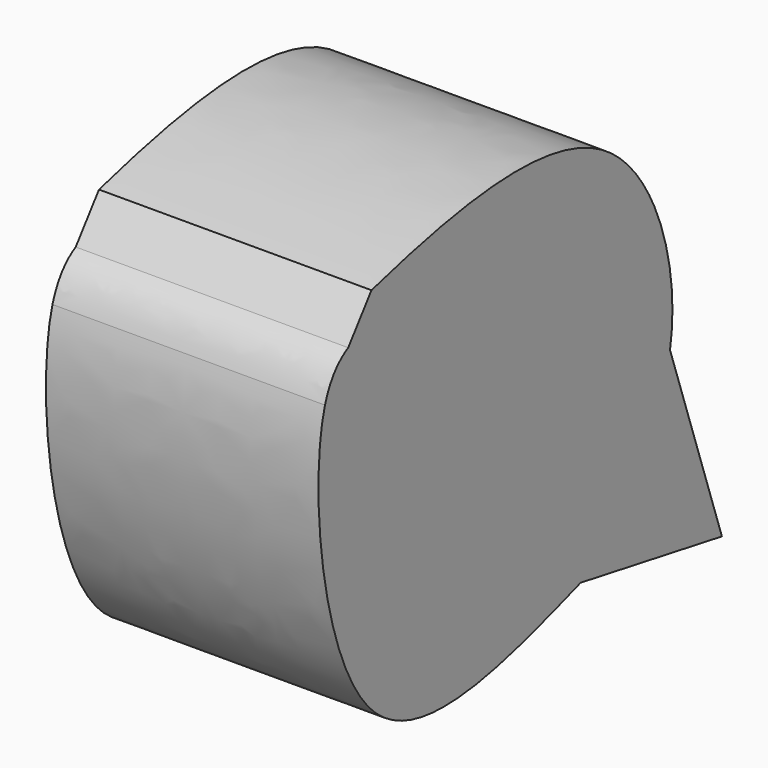
from build123d import *

# Parameters (mm, degrees)
F1_DEPTH = 45.07453


with BuildPart() as f1:
    # F0 (on Right) → F1 (new body)
    with BuildSketch(Plane.YZ):
        Polygon((-59.807760641, 66.0852901638), (-64.6163138319, 59.6738884004), (-49.002295057, 59.9308239749), (-54.9992074501, 72.4966919271), align=None)
        with BuildLine():
            add(Edge.make_bspline(
                [(-59.807760641, 66.0852901638), (-60.9811697449, 65.4542834753), (-63.2808257205, 63.9392444645), (-64.6163138319, 59.6738884004)],
                knots=[0, 0, 0, 0, 0.1723284347, 0.1723284347, 0.1723284347, 0.1723284347], degree=3))
            Line((-64.6163138319, 59.6738884004), (-59.807760641, 66.0852901638))
        make_face()
        with BuildLine():
            Line((-49.002295057, 59.9308239749), (-64.6163138319, 59.6738884004))
            add(Edge.make_bspline(
                [(-64.6163138319, 59.6738884004), (-67.9390149419, 49.0616611493), (-62.8318014713, -4.2894128494), (-28.0017629982, 6.7678682332), (-11.7444196583, 12.3182377696)],
                knots=[0.1723284347, 0.1723284347, 0.1723284347, 0.1723284347, 0.6010824434, 1, 1, 1, 1], degree=3))
            Line((-11.7444196583, 12.3182377696), (-38.3074693382, 37.5209972262))
            Line((-38.3074693382, 37.5209972262), (-49.002295057, 59.9308239749))
        make_face()
        with BuildLine():
            Line((-54.9992074501, 72.4966919271), (-49.002295057, 59.9308239749))
            Line((-49.002295057, 59.9308239749), (-21.8001566827, 60.378447175))
            Line((-21.8001566827, 60.378447175), (6.7340806127, 38.6924259365))
            add(Edge.make_bspline(
                [(-54.9992074501, 72.4966919271), (-35.4131674819, 77.87904108), (-1.4672811929, 83.1813030732), (8.8456780891, 50.234342576), (6.7340806127, 38.6924259365)],
                knots=[0, 0, 0, 0, 0.3756437786, 0.6964863312, 0.6964863312, 0.6964863312, 0.6964863312], degree=3))
        make_face()
        with BuildLine():
            Line((-21.8001566827, 60.378447175), (-49.002295057, 59.9308239749))
            Line((-49.002295057, 59.9308239749), (-38.3074693382, 37.5209972262))
            Line((-38.3074693382, 37.5209972262), (-11.7444196583, 12.3182377696))
            add(Edge.make_bspline(
                [(6.7340806127, 38.6924259365), (4.7365316845, 27.7738946024), (-3.4021095863, 20.1086597263), (-11.7444196583, 12.3182377696)],
                knots=[0.6964863312, 0.6964863312, 0.6964863312, 0.6964863312, 1, 1, 1, 1], degree=3))
            Line((6.7340806127, 38.6924259365), (-21.8001566827, 60.378447175))
        make_face()
        with BuildLine():
            add(Edge.make_bspline(
                [(6.7340806127, 38.6924259365), (4.7365316845, 27.7738946024), (-3.4021095863, 20.1086597263), (-11.7444196583, 12.3182377696)],
                knots=[0.6964863312, 0.6964863312, 0.6964863312, 0.6964863312, 1, 1, 1, 1], degree=3))
            Line((-11.7444196583, 12.3182377696), (17.4629520625, 7.1906279773))
            Line((17.4629520625, 7.1906279773), (6.7340806127, 38.6924259365))
        make_face()
    extrude(amount=F1_DEPTH)


solid = f1.part
